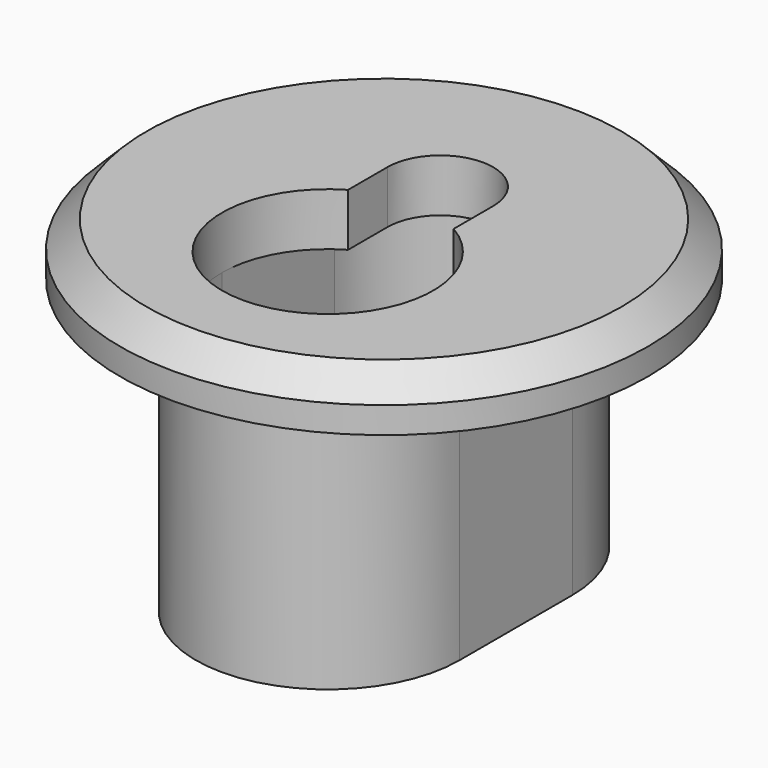
from build123d import *

# Parameters (mm, degrees)
PAD009_DEPTH    = 15
POCKET020_DEPTH = 12
SKETCH033_R     = 15
PAD010_DEPTH    = 3
CHAMFER_SIZE    = 1.5


with BuildPart() as part:
    # Sketch031 → Pad009 (new body)
    with BuildSketch(Plane.XY):
        with BuildLine():
            ThreePointArc((7.5, 8), (0, 15.5), (-7.5, 8))
            Line((-7.5, 8), (-7.5, 0))
            ThreePointArc((-7.5, 0), (0, -7.5), (7.5, 0))
            Line((7.5, 0), (7.5, 8))
        make_face()
    extrude(amount=PAD009_DEPTH)

    # Sketch032 (on Face6 of Pad009) → Pocket020 (cut)
    with BuildSketch(Plane.XY.offset(15)):
        with BuildLine():
            ThreePointArc((-6, 0), (0, -6), (6, 0))
            Line((6, 0), (6, 8))
            ThreePointArc((6, 8), (0, 14), (-6, 8))
            Line((-6, 8), (-6, 0))
        make_face()
    extrude(amount=-POCKET020_DEPTH, mode=Mode.SUBTRACT)

    # Sketch033 (on Face5 of Pocket020) → Pad010 (join)
    with BuildSketch(Plane.XY.offset(15)):
        with Locations((0, 4)):
            Circle(SKETCH033_R)
        with BuildLine():
            ThreePointArc((-3, 5.196152), (0, -6), (3, 5.196152))
            Line((3, 8), (3, 5.196152))
            ThreePointArc((3, 8), (0, 11), (-3, 8))
            Line((-3, 8), (-3, 5.196152))
        make_face(mode=Mode.SUBTRACT)
    extrude(amount=PAD010_DEPTH)

    # Chamfer
    chamfer_edges = [part.edges().sort_by_distance(p)[0] for p in [
        (-15, 4, 18),
    ]]
    chamfer(chamfer_edges, length=CHAMFER_SIZE)


with BuildPart() as part_1:
    # Body003 placement: moved
    add(part.part.moved(Location((240, 190, 2))))


solid = part_1.part
